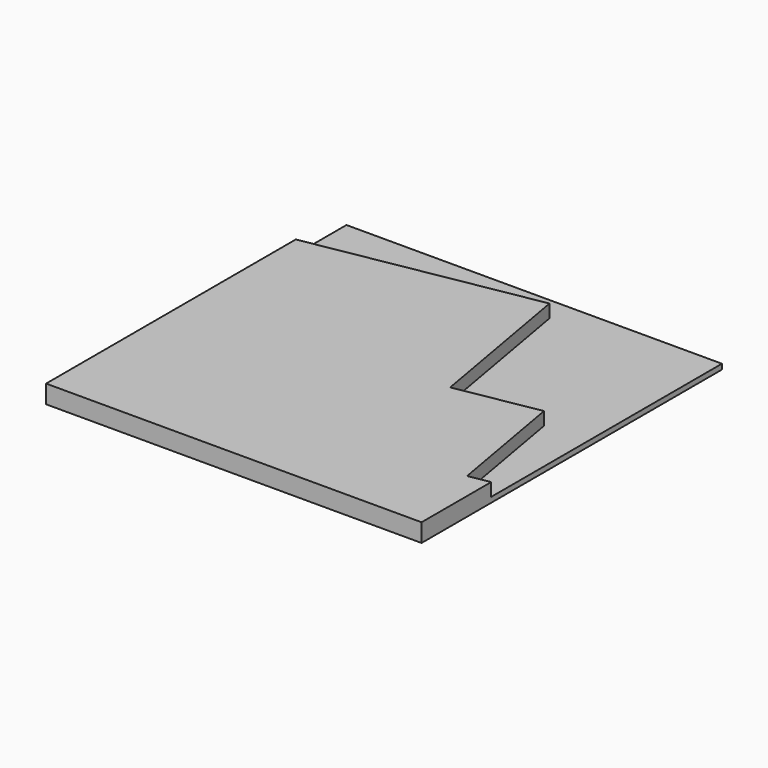
from build123d import *

# Parameters (mm, degrees)
F0_W     = 457.2
F0_H     = 457.2
F1_DEPTH = 6.35
F3_DEPTH = 15.875
F5_DEPTH = 15.875
F7_DEPTH = 15.875


with BuildPart() as f1:
    # F0 (on Top) → F1 (new body)
    with BuildSketch(Plane.XY):
        Rectangle(F0_W, F0_H)
    extrude(amount=F1_DEPTH)

    # F2 (on face) → F3 (join)
    with BuildSketch(Plane.XY.offset(6.35)):
        Polygon((76.373018, 5.326067), (102.837036, -144.758628), (202.893499, -127.11595), (176.429482, 22.968745), align=None)
    extrude(amount=F3_DEPTH)

    # F4 (on face) → F5 (join)
    with BuildSketch(Plane.XY.offset(6.35)):
        Polygon((228.6, -122.583194), (202.893499, -127.11595), (102.837036, -144.758628), (-228.6, -203.2), (-228.6, -228.6), (228.6, -228.6), align=None)
    extrude(amount=F5_DEPTH)

    # F6 (on face) → F7 (join)
    with BuildSketch(Plane.XY.offset(6.35)):
        Polygon((-228.6, -203.2), (102.837036, -144.758628), (76.373018, 5.326067), (42.190329, 199.185465), (-228.6, 151.437759), align=None)
    extrude(amount=F7_DEPTH)


solid = f1.part
